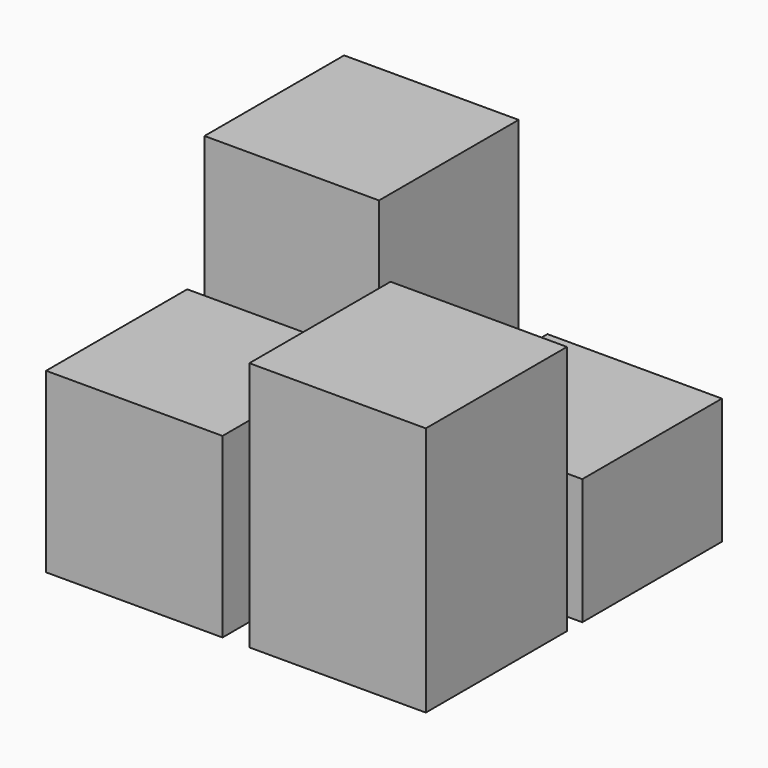
from build123d import *

# Parameters (mm, degrees)
F0_W     = 24.977392
F0_H     = 24.977391
F1_DEPTH = 18.034
F2_DEPTH = 43.688
F0_W_2   = 25.251871
F0_H_2   = 25.251871
F3_DEPTH = 25.4
F0_W_3   = 25.251869
F0_H_3   = 25.251869
F4_DEPTH = 35.814


with BuildPart() as f1:
    # F0 (on Top) → F1 (new body)
    with BuildSketch(Plane.XY):
        with Locations((-3.362342, 30.810026)):
            Rectangle(F0_W, F0_H)
    extrude(amount=F1_DEPTH)


with BuildPart() as f2:
    # F0 (on Top) → F2 (new body)
    with BuildSketch(Plane.XY):
        with Locations((-32.456887, 30.810026)):
            Rectangle(F0_W, F0_H)
    extrude(amount=F2_DEPTH)

    # F0 (on Top) → F3 (join)
    with BuildSketch(Plane.XY):
        with Locations((-32.456887, 30.810026)):
            Rectangle(F0_W, F0_H)
        with Locations((-32.594127, 2.950626)):
            Rectangle(F0_W_2, F0_H_2)
    extrude(amount=F3_DEPTH)


with BuildPart() as f4:
    # F0 (on Top) → F4 (new body)
    with BuildSketch(Plane.XY):
        with Locations((-3.499581, 2.950627)):
            Rectangle(F0_W_3, F0_H_3)
    extrude(amount=F4_DEPTH)


solid = Compound([f1.part, f2.part, f4.part])
